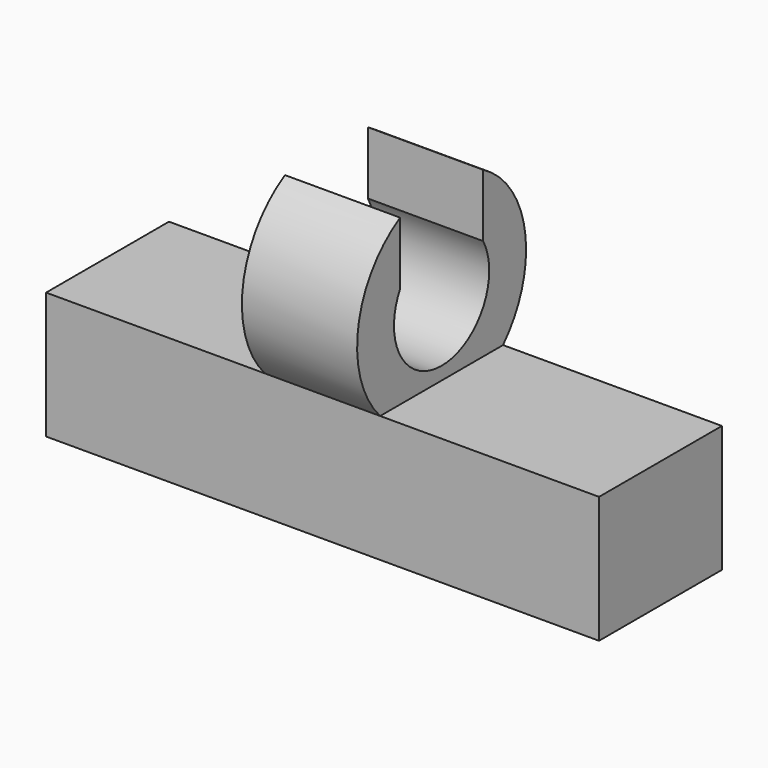
from build123d import *

# Parameters (mm, degrees)
F0_W     = 18.288
F0_H     = 5.08
F0_W_2   = 16.256
F0_H_2   = 3.302
F1_DEPTH = 3.175
F2_W     = 16.256
F2_H     = 3.302
F3_DEPTH = 0.508
F4_W     = 18.288
F4_H     = 5.08
F4_W_2   = 16.256
F4_H_2   = 3.302
F5_DEPTH = 1.016
F7_DEPTH = 1.905


with BuildPart() as f1:
    # F0 (on Top) → F1 (new body)
    with BuildSketch(Plane.XY):
        with Locations((0, 2.54)):
            Rectangle(F0_W, F0_H)
        with Locations((0, 2.54)):
            Rectangle(F0_W_2, F0_H_2, mode=Mode.SUBTRACT)
    extrude(amount=F1_DEPTH)

    # F2 (on face) → F3 (join)
    with BuildSketch(Plane(origin=(0, 0, 0), x_dir=(1, 0, 0), z_dir=(0, 0, -1))):
        with Locations((0, -2.54)):
            Rectangle(F2_W, F2_H)
    extrude(amount=-F3_DEPTH)

    # F4 (on face) → F5 (join)
    with BuildSketch(Plane.XY.offset(3.175)):
        with Locations((0, 2.54)):
            Rectangle(F4_W, F4_H)
        with Locations((0, 2.54)):
            Rectangle(F4_W_2, F4_H_2, mode=Mode.SUBTRACT)
        with Locations((0, 2.54)):
            Rectangle(F4_W_2, F4_H_2)
    extrude(amount=F5_DEPTH)

    # F6 (on Right) → F7 (join, symmetric)
    with BuildSketch(Plane.YZ):
        with BuildLine():
            Line((0, 4.191), (5.08, 4.191))
            ThreePointArc((5.08, 4.191), (5.7856514177, 5.2983813365), (6.0325, 6.5880724332))
            ThreePointArc((6.0325, 6.5880724332), (5.5554143579, 8.3501259227), (4.2545, 9.6307761651))
            Line((4.2545, 9.6307761651), (4.2545, 7.5552756176))
            ThreePointArc((4.2545, 7.5552756176), (4.4439413725, 7.0880719332), (4.5085, 6.5880724332))
            ThreePointArc((4.5085, 6.5880724332), (2.0400005, 4.6841310607), (0.8255, 7.5552756176))
            Line((0.8255, 7.5552756176), (0.8255, 9.6307761651))
            ThreePointArc((0.8255, 9.6307761651), (-0.9129673824, 7.1120690992), (0, 4.191))
        make_face()
    extrude(amount=F7_DEPTH, both=True)


solid = f1.part
